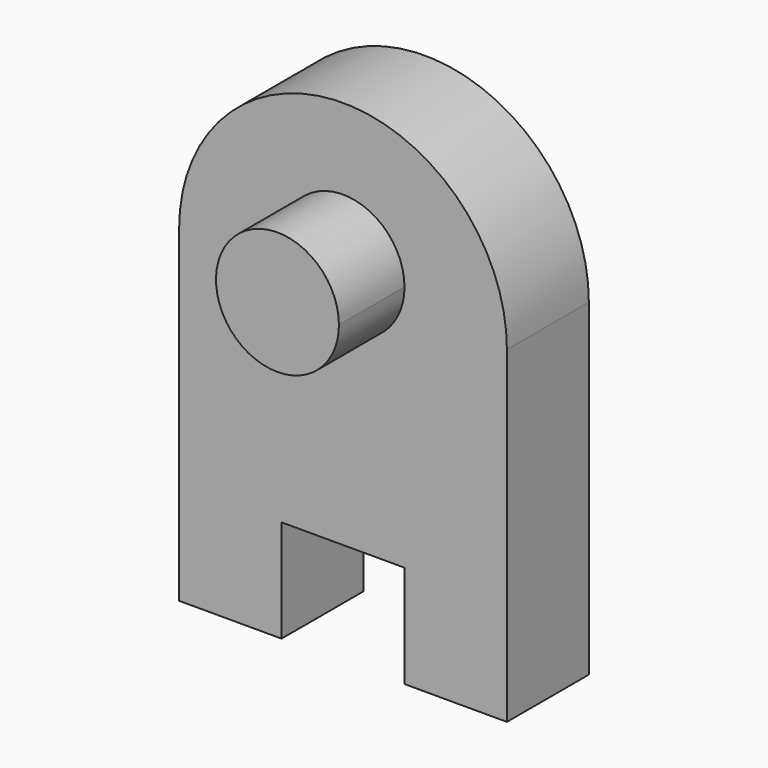
from build123d import *

# Parameters (mm, degrees)
F1_DEPTH = 25
F4_DEPTH = 20


with BuildPart() as f1:
    # F0 (on Front) → F1 (new body)
    with BuildSketch(Plane.XZ):
        with BuildLine():
            Line((0, 41.093137), (40, 41.093137))
            ThreePointArc((40, 41.093137), (0, 81.093137), (-40, 41.093137))
            Line((-40, 41.093137), (0, 41.093137))
        make_face()
        with BuildLine():
            ThreePointArc((-40, 41.093137), (0, 1.093137), (40, 41.093137))
            Line((40, 41.093137), (0, 41.093137))
            Line((0, 41.093137), (-40, 41.093137))
        make_face()
        with BuildLine():
            Line((40, -38.906863), (40, 41.093137))
            ThreePointArc((40, 41.093137), (0, 1.093137), (-40, 41.093137))
            Line((-40, 41.093137), (-40, -38.906863))
            Line((-40, -38.906863), (-15, -38.906863))
            Line((-15, -38.906863), (-15, -13.906863))
            Line((-15, -13.906863), (15, -13.906863))
            Line((15, -13.906863), (15, -38.906863))
            Line((15, -38.906863), (40, -38.906863))
        make_face()
    extrude(amount=F1_DEPTH)

    # F3 (on face) → F4 (join)
    with BuildSketch(Plane.XZ.offset(25)):
        with BuildLine():
            ThreePointArc((0, 31.394553), (10.606602, 35.787951), (15, 46.394553))
            ThreePointArc((15, 46.394553), (-10.606602, 57.001154), (0, 31.394553))
        make_face()
    extrude(amount=F4_DEPTH)


solid = f1.part
